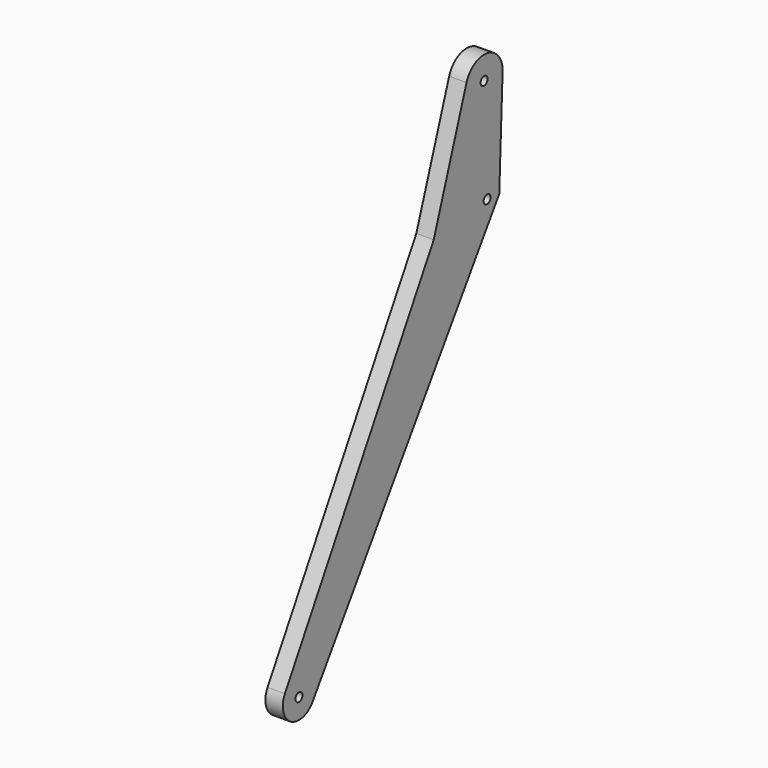
from build123d import *

# Parameters (mm, degrees)
F2_R     = 4.7625
F3_DEPTH = 19.05


with BuildPart() as f3:
    # F2 (on Right) → F3 (new body)
    with BuildSketch(Plane.YZ):
        with BuildLine():
            ThreePointArc((-1015.907792, 792.417112), (-1036.686006, 818.394405), (-1065.357711, 801.527653))
            Line((-1065.357711, 801.527653), (-1110.364914, 667.998314))
            Line((-1110.364914, 667.998314), (-1314.37809, 312.639923))
            ThreePointArc((-1314.37809, 312.639923), (-1306.780078, 282.66374), (-1276.576197, 289.299018))
            Line((-1276.576197, 289.299018), (-1020.491481, 675.813437))
            Line((-1020.491481, 675.813437), (-1015.907792, 792.417112))
        make_face()
        with Locations((-1295.10365, 301.574363)):
            Circle(F2_R, mode=Mode.SUBTRACT)
        with Locations((-1037.116024, 677.367714)):
            Circle(F2_R, mode=Mode.SUBTRACT)
        with Locations((-1041.288189, 793.414815)):
            Circle(F2_R, mode=Mode.SUBTRACT)
    extrude(amount=F3_DEPTH)


solid = f3.part
